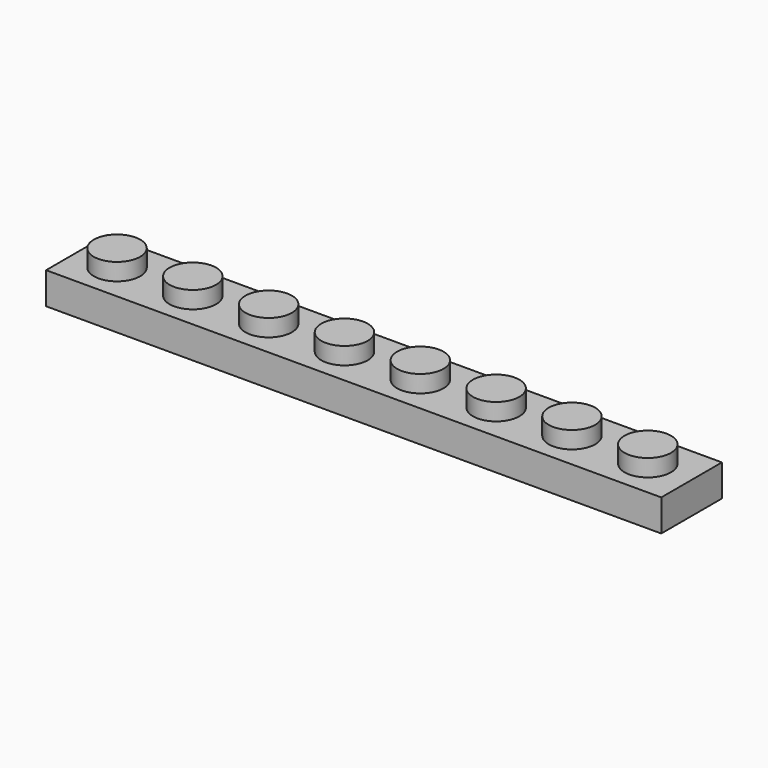
from build123d import *

# Parameters (mm, degrees)
F0_W     = 63.881
F0_H     = 7.874
F1_DEPTH = 3.302
F2_R     = 2.413
F3_DEPTH = 1.778
F5_T     = -1.524
F7_R     = 0.7239
F6_R     = 0.7493
F8_DEPTH = 3.20278


with BuildPart() as f1:
    # F0 (on Top) → F1 (new body)
    with BuildSketch(Plane.XY):
        Rectangle(F0_W, F0_H)
    extrude(amount=F1_DEPTH)

    # F2 (on face) + F0 (on Top) → F3 (join)
    with BuildSketch(Plane.XY.offset(3.302)):
        with BuildLine():
            ThreePointArc((-25.3111, 0), (-27.7241, 2.413), (-30.1371, 0))
            ThreePointArc((-30.1371, 0), (-27.7241, -2.413), (-25.3111, 0))
        make_face()
        with Locations((-19.8501, 0)):
            Circle(F2_R)
        with Locations((-11.9761, 0)):
            Circle(F2_R)
        with Locations((-4.1021, 0)):
            Circle(F2_R)
        with Locations((3.7719, 0)):
            Circle(F2_R)
        with Locations((11.6459, 0)):
            Circle(F2_R)
        with Locations((19.5199, 0)):
            Circle(F2_R)
        with Locations((27.3939, 0)):
            Circle(F2_R)
    with BuildSketch(Plane.XY):
        Rectangle(F0_W, F0_H)
    extrude(amount=F3_DEPTH)

    # F5
    f5_openings = [f1.faces().sort_by_distance(p)[0] for p in [
        (0, 0, 0),
    ]]
    offset(amount=F5_T, openings=f5_openings, kind=Kind.INTERSECTION)

    # F7 (on face) + F6 (on face) → F8 (join)
    with BuildSketch(Plane(origin=(0, 0, 0), x_dir=(1, 0, 0), z_dir=(0, 0, -1))):
        with Locations((-8.001, 0)):
            Circle(F7_R)
        with Locations((-24.003, 0)):
            Circle(F7_R)
        with Locations((-16.002, 0)):
            Circle(F7_R)
    with BuildSketch(Plane(origin=(0, 0, 0), x_dir=(1, 0, 0), z_dir=(0, 0, -1))):
        Circle(F6_R)
        with Locations((7.85095, 0)):
            Circle(F6_R)
        with Locations((15.7019, 0)):
            Circle(F6_R)
        with Locations((23.55285, 0)):
            Circle(F6_R)
    extrude(amount=-F8_DEPTH)


solid = f1.part
